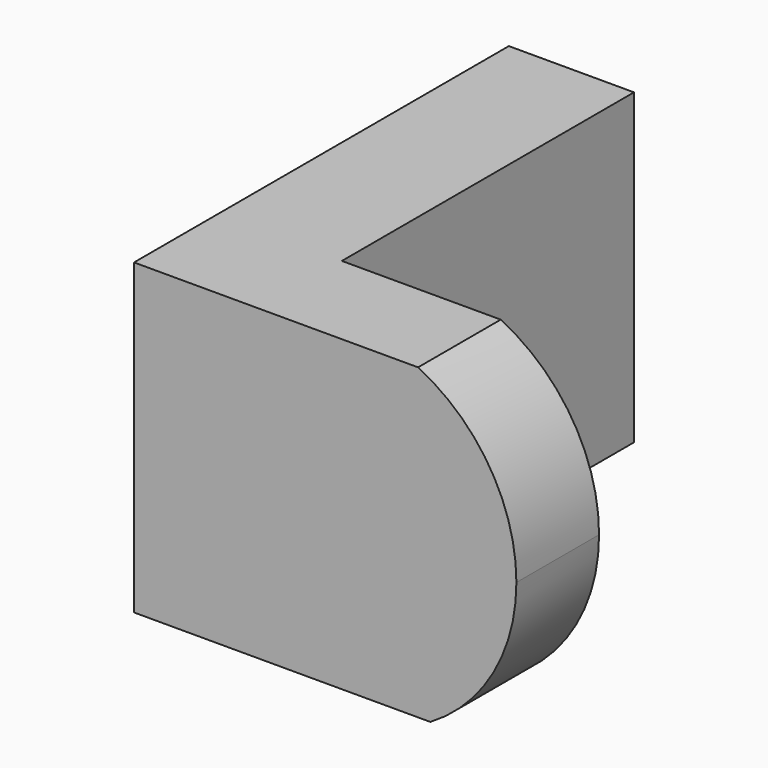
from build123d import *

# Parameters (mm, degrees)
F1_DEPTH = 38.1
F3_DEPTH = 12.778172


with BuildPart() as f1:
    # F0 (on Top) → F1 (new body)
    with BuildSketch(Plane.XY):
        Polygon((0, 57.923168), (0, 0), (47.275532, 0), (47.275532, 12.777172), (15.474574, 12.777172), (15.474574, 57.923168), align=None)
    extrude(amount=F1_DEPTH)

    # F2 (on face) → F3 (cut, through all)
    with BuildSketch(Plane(origin=(0, 12.777172, 0), x_dir=(-1, 0, 0), z_dir=(0, 1, 0))):
        with BuildLine():
            ThreePointArc((-47.275532, 18.642101), (-43.985861, 30.114338), (-35.116624, 38.1))
            Line((-35.116624, 38.1), (-47.275532, 38.1))
            Line((-47.275532, 38.1), (-47.275532, 18.642101))
        make_face()
        with BuildLine():
            ThreePointArc((-36.633106, 0), (-44.4276, 7.909101), (-47.275532, 18.642101))
            Line((-47.275532, 18.642101), (-47.275532, 0))
            Line((-47.275532, 0), (-36.633106, 0))
        make_face()
    extrude(amount=-F3_DEPTH, mode=Mode.SUBTRACT)


solid = f1.part
